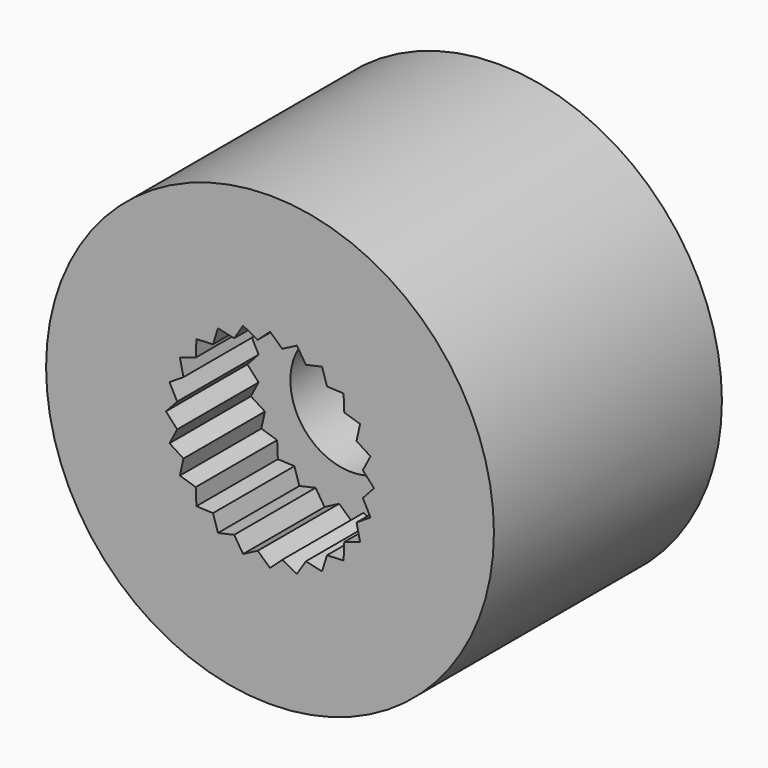
from build123d import *

# Parameters (mm, degrees)
F0_R      = 5.5
F1_DEPTH  = 7
F2_R      = 1.5
F3_DEPTH  = 2.5
F3_FACE_R = 1.5
F4_DEPTH  = 7.001


with BuildPart() as f1:
    # F0 (on Front) → F1 (new body)
    with BuildSketch(Plane.XZ):
        Circle(F0_R)
    extrude(amount=F1_DEPTH)

    # F2 (on face) → F3 (cut)
    with BuildSketch(Plane.XZ.offset(7)):
        with BuildLine():
            add(Edge.make_bspline(
                [(-0.661426, 2.468477), (-0.621291, 2.447571), (-0.541021, 2.405759), (-0.420616, 2.343041), (-0.340345, 2.301229), (-0.30021, 2.280323)],
                knots=[0, 0, 0, 0, 0.135761, 0.271522, 0.407283, 0.407283, 0.407283, 0.407283], degree=3))
            add(Edge.make_bspline(
                [(-0.880172, 2.124923), (-0.855867, 2.163096), (-0.807257, 2.239441), (-0.734342, 2.353959), (-0.685731, 2.430304), (-0.661426, 2.468477)],
                knots=[0, 0, 0, 0, 0.135761, 0.271522, 0.407283, 0.407283, 0.407283, 0.407283], degree=3))
            add(Edge.make_bspline(
                [(-1.277778, 2.213176), (-1.233599, 2.20337), (-1.145242, 2.183758), (-1.012707, 2.154341), (-0.92435, 2.134729), (-0.880172, 2.124923)],
                knots=[0, 0, 0, 0, 0.135761, 0.271522, 0.407283, 0.407283, 0.407283, 0.407283], degree=3))
            add(Edge.make_bspline(
                [(-1.400151, 1.824713), (-1.386554, 1.867875), (-1.35936, 1.9542), (-1.318569, 2.083688), (-1.291375, 2.170013), (-1.277778, 2.213176)],
                knots=[0, 0, 0, 0, 0.135761, 0.271522, 0.407283, 0.407283, 0.407283, 0.407283], degree=3))
            add(Edge.make_bspline(
                [(-1.807051, 1.807051), (-1.76184, 1.809013), (-1.671418, 1.812938), (-1.535784, 1.818825), (-1.445362, 1.82275), (-1.400151, 1.824713)],
                knots=[0, 0, 0, 0, 0.135761, 0.271522, 0.407283, 0.407283, 0.407283, 0.407283], degree=3))
            add(Edge.make_bspline(
                [(-1.824713, 1.400151), (-1.82275, 1.445362), (-1.818825, 1.535784), (-1.812938, 1.671418), (-1.809013, 1.76184), (-1.807051, 1.807051)],
                knots=[0, 0, 0, 0, 0.135761, 0.271522, 0.407283, 0.407283, 0.407283, 0.407283], degree=3))
            add(Edge.make_bspline(
                [(-2.213176, 1.277778), (-2.170013, 1.291375), (-2.083688, 1.318569), (-1.9542, 1.35936), (-1.867875, 1.386554), (-1.824713, 1.400151)],
                knots=[0, 0, 0, 0, 0.135761, 0.271522, 0.407283, 0.407283, 0.407283, 0.407283], degree=3))
            add(Edge.make_bspline(
                [(-2.124923, 0.880172), (-2.134729, 0.92435), (-2.154341, 1.012707), (-2.183758, 1.145242), (-2.20337, 1.233599), (-2.213176, 1.277778)],
                knots=[0, 0, 0, 0, 0.135761, 0.271522, 0.407283, 0.407283, 0.407283, 0.407283], degree=3))
            add(Edge.make_bspline(
                [(-2.468477, 0.661426), (-2.430304, 0.685731), (-2.353959, 0.734342), (-2.239441, 0.807257), (-2.163096, 0.855867), (-2.124923, 0.880172)],
                knots=[0, 0, 0, 0, 0.135761, 0.271522, 0.407283, 0.407283, 0.407283, 0.407283], degree=3))
            add(Edge.make_bspline(
                [(-2.280323, 0.30021), (-2.301229, 0.340345), (-2.343041, 0.420616), (-2.405759, 0.541021), (-2.447571, 0.621291), (-2.468477, 0.661426)],
                knots=[0, 0, 0, 0, 0.135761, 0.271522, 0.407283, 0.407283, 0.407283, 0.407283], degree=3))
            add(Edge.make_bspline(
                [(-2.555556, 0), (-2.524974, 0.033357), (-2.463811, 0.10007), (-2.372067, 0.20014), (-2.310905, 0.266854), (-2.280323, 0.30021)],
                knots=[0, 0, 0, 0, 0.135761, 0.271522, 0.407283, 0.407283, 0.407283, 0.407283], degree=3))
            add(Edge.make_bspline(
                [(-2.280323, -0.30021), (-2.310905, -0.266854), (-2.372067, -0.20014), (-2.463811, -0.10007), (-2.524974, -0.033357), (-2.555556, 0)],
                knots=[0, 0, 0, 0, 0.135761, 0.271522, 0.407283, 0.407283, 0.407283, 0.407283], degree=3))
            add(Edge.make_bspline(
                [(-2.468477, -0.661426), (-2.447571, -0.621291), (-2.405759, -0.541021), (-2.343041, -0.420616), (-2.301229, -0.340345), (-2.280323, -0.30021)],
                knots=[0, 0, 0, 0, 0.135761, 0.271522, 0.407283, 0.407283, 0.407283, 0.407283], degree=3))
            add(Edge.make_bspline(
                [(-2.124923, -0.880172), (-2.163096, -0.855867), (-2.239441, -0.807257), (-2.353959, -0.734342), (-2.430304, -0.685731), (-2.468477, -0.661426)],
                knots=[0, 0, 0, 0, 0.135761, 0.271522, 0.407283, 0.407283, 0.407283, 0.407283], degree=3))
            add(Edge.make_bspline(
                [(-2.213176, -1.277778), (-2.20337, -1.233599), (-2.183758, -1.145242), (-2.154341, -1.012707), (-2.134729, -0.92435), (-2.124923, -0.880172)],
                knots=[0, 0, 0, 0, 0.135761, 0.271522, 0.407283, 0.407283, 0.407283, 0.407283], degree=3))
            add(Edge.make_bspline(
                [(-1.824713, -1.400151), (-1.867875, -1.386554), (-1.9542, -1.35936), (-2.083688, -1.318569), (-2.170013, -1.291375), (-2.213176, -1.277778)],
                knots=[0, 0, 0, 0, 0.135761, 0.271522, 0.407283, 0.407283, 0.407283, 0.407283], degree=3))
            add(Edge.make_bspline(
                [(-1.807051, -1.807051), (-1.809013, -1.76184), (-1.812938, -1.671418), (-1.818825, -1.535784), (-1.82275, -1.445362), (-1.824713, -1.400151)],
                knots=[0, 0, 0, 0, 0.135761, 0.271522, 0.407283, 0.407283, 0.407283, 0.407283], degree=3))
            add(Edge.make_bspline(
                [(-1.400151, -1.824713), (-1.445362, -1.82275), (-1.535784, -1.818825), (-1.671418, -1.812938), (-1.76184, -1.809013), (-1.807051, -1.807051)],
                knots=[0, 0, 0, 0, 0.135761, 0.271522, 0.407283, 0.407283, 0.407283, 0.407283], degree=3))
            add(Edge.make_bspline(
                [(-1.277778, -2.213176), (-1.291375, -2.170013), (-1.318569, -2.083688), (-1.35936, -1.9542), (-1.386554, -1.867875), (-1.400151, -1.824713)],
                knots=[0, 0, 0, 0, 0.135761, 0.271522, 0.407283, 0.407283, 0.407283, 0.407283], degree=3))
            add(Edge.make_bspline(
                [(-0.880172, -2.124923), (-0.92435, -2.134729), (-1.012707, -2.154341), (-1.145242, -2.183758), (-1.233599, -2.20337), (-1.277778, -2.213176)],
                knots=[0, 0, 0, 0, 0.135761, 0.271522, 0.407283, 0.407283, 0.407283, 0.407283], degree=3))
            add(Edge.make_bspline(
                [(-0.661426, -2.468477), (-0.685731, -2.430304), (-0.734342, -2.353959), (-0.807257, -2.239441), (-0.855867, -2.163096), (-0.880172, -2.124923)],
                knots=[0, 0, 0, 0, 0.135761, 0.271522, 0.407283, 0.407283, 0.407283, 0.407283], degree=3))
            add(Edge.make_bspline(
                [(-0.30021, -2.280323), (-0.340345, -2.301229), (-0.420616, -2.343041), (-0.541021, -2.405759), (-0.621291, -2.447571), (-0.661426, -2.468477)],
                knots=[0, 0, 0, 0, 0.135761, 0.271522, 0.407283, 0.407283, 0.407283, 0.407283], degree=3))
            add(Edge.make_bspline(
                [(0, -2.555556), (-0.033357, -2.524974), (-0.10007, -2.463811), (-0.20014, -2.372067), (-0.266854, -2.310905), (-0.30021, -2.280323)],
                knots=[0, 0, 0, 0, 0.135761, 0.271522, 0.407283, 0.407283, 0.407283, 0.407283], degree=3))
            add(Edge.make_bspline(
                [(0.30021, -2.280323), (0.266854, -2.310905), (0.20014, -2.372067), (0.10007, -2.463811), (0.033357, -2.524974), (0, -2.555556)],
                knots=[0, 0, 0, 0, 0.135761, 0.271522, 0.407283, 0.407283, 0.407283, 0.407283], degree=3))
            add(Edge.make_bspline(
                [(0.661426, -2.468477), (0.621291, -2.447571), (0.541021, -2.405759), (0.420616, -2.343041), (0.340345, -2.301229), (0.30021, -2.280323)],
                knots=[0, 0, 0, 0, 0.135761, 0.271522, 0.407283, 0.407283, 0.407283, 0.407283], degree=3))
            add(Edge.make_bspline(
                [(0.880172, -2.124923), (0.855867, -2.163096), (0.807257, -2.239441), (0.734342, -2.353959), (0.685731, -2.430304), (0.661426, -2.468477)],
                knots=[0, 0, 0, 0, 0.135761, 0.271522, 0.407283, 0.407283, 0.407283, 0.407283], degree=3))
            add(Edge.make_bspline(
                [(1.277778, -2.213176), (1.233599, -2.20337), (1.145242, -2.183758), (1.012707, -2.154341), (0.92435, -2.134729), (0.880172, -2.124923)],
                knots=[0, 0, 0, 0, 0.135761, 0.271522, 0.407283, 0.407283, 0.407283, 0.407283], degree=3))
            add(Edge.make_bspline(
                [(1.400151, -1.824713), (1.386554, -1.867875), (1.35936, -1.9542), (1.318569, -2.083688), (1.291375, -2.170013), (1.277778, -2.213176)],
                knots=[0, 0, 0, 0, 0.135761, 0.271522, 0.407283, 0.407283, 0.407283, 0.407283], degree=3))
            add(Edge.make_bspline(
                [(1.807051, -1.807051), (1.76184, -1.809013), (1.671418, -1.812938), (1.535784, -1.818825), (1.445362, -1.82275), (1.400151, -1.824713)],
                knots=[0, 0, 0, 0, 0.135761, 0.271522, 0.407283, 0.407283, 0.407283, 0.407283], degree=3))
            add(Edge.make_bspline(
                [(1.824713, -1.400151), (1.82275, -1.445362), (1.818825, -1.535784), (1.812938, -1.671418), (1.809013, -1.76184), (1.807051, -1.807051)],
                knots=[0, 0, 0, 0, 0.135761, 0.271522, 0.407283, 0.407283, 0.407283, 0.407283], degree=3))
            add(Edge.make_bspline(
                [(2.213176, -1.277778), (2.170013, -1.291375), (2.083688, -1.318569), (1.9542, -1.35936), (1.867875, -1.386554), (1.824713, -1.400151)],
                knots=[0, 0, 0, 0, 0.135761, 0.271522, 0.407283, 0.407283, 0.407283, 0.407283], degree=3))
            add(Edge.make_bspline(
                [(2.124923, -0.880172), (2.134729, -0.92435), (2.154341, -1.012707), (2.183758, -1.145242), (2.20337, -1.233599), (2.213176, -1.277778)],
                knots=[0, 0, 0, 0, 0.135761, 0.271522, 0.407283, 0.407283, 0.407283, 0.407283], degree=3))
            add(Edge.make_bspline(
                [(2.468477, -0.661426), (2.430304, -0.685731), (2.353959, -0.734342), (2.239441, -0.807257), (2.163096, -0.855867), (2.124923, -0.880172)],
                knots=[0, 0, 0, 0, 0.135761, 0.271522, 0.407283, 0.407283, 0.407283, 0.407283], degree=3))
            add(Edge.make_bspline(
                [(2.280323, -0.30021), (2.301229, -0.340345), (2.343041, -0.420616), (2.405759, -0.541021), (2.447571, -0.621291), (2.468477, -0.661426)],
                knots=[0, 0, 0, 0, 0.135761, 0.271522, 0.407283, 0.407283, 0.407283, 0.407283], degree=3))
            add(Edge.make_bspline(
                [(2.555556, 0), (2.524974, -0.033357), (2.463811, -0.10007), (2.372067, -0.20014), (2.310905, -0.266854), (2.280323, -0.30021)],
                knots=[0, 0, 0, 0, 0.135761, 0.271522, 0.407283, 0.407283, 0.407283, 0.407283], degree=3))
            add(Edge.make_bspline(
                [(2.280323, 0.30021), (2.310905, 0.266854), (2.372067, 0.20014), (2.463811, 0.10007), (2.524974, 0.033357), (2.555556, 0)],
                knots=[0, 0, 0, 0, 0.135761, 0.271522, 0.407283, 0.407283, 0.407283, 0.407283], degree=3))
            add(Edge.make_bspline(
                [(2.468477, 0.661426), (2.447571, 0.621291), (2.405759, 0.541021), (2.343041, 0.420616), (2.301229, 0.340345), (2.280323, 0.30021)],
                knots=[0, 0, 0, 0, 0.135761, 0.271522, 0.407283, 0.407283, 0.407283, 0.407283], degree=3))
            add(Edge.make_bspline(
                [(2.124923, 0.880172), (2.163096, 0.855867), (2.239441, 0.807257), (2.353959, 0.734342), (2.430304, 0.685731), (2.468477, 0.661426)],
                knots=[0, 0, 0, 0, 0.135761, 0.271522, 0.407283, 0.407283, 0.407283, 0.407283], degree=3))
            add(Edge.make_bspline(
                [(2.213176, 1.277778), (2.20337, 1.233599), (2.183758, 1.145242), (2.154341, 1.012707), (2.134729, 0.92435), (2.124923, 0.880172)],
                knots=[0, 0, 0, 0, 0.135761, 0.271522, 0.407283, 0.407283, 0.407283, 0.407283], degree=3))
            add(Edge.make_bspline(
                [(1.824713, 1.400151), (1.867875, 1.386554), (1.9542, 1.35936), (2.083688, 1.318569), (2.170013, 1.291375), (2.213176, 1.277778)],
                knots=[0, 0, 0, 0, 0.135761, 0.271522, 0.407283, 0.407283, 0.407283, 0.407283], degree=3))
            add(Edge.make_bspline(
                [(1.807051, 1.807051), (1.809013, 1.76184), (1.812938, 1.671418), (1.818825, 1.535784), (1.82275, 1.445362), (1.824713, 1.400151)],
                knots=[0, 0, 0, 0, 0.135761, 0.271522, 0.407283, 0.407283, 0.407283, 0.407283], degree=3))
            add(Edge.make_bspline(
                [(1.400151, 1.824713), (1.445362, 1.82275), (1.535784, 1.818825), (1.671418, 1.812938), (1.76184, 1.809013), (1.807051, 1.807051)],
                knots=[0, 0, 0, 0, 0.135761, 0.271522, 0.407283, 0.407283, 0.407283, 0.407283], degree=3))
            add(Edge.make_bspline(
                [(1.277778, 2.213176), (1.291375, 2.170013), (1.318569, 2.083688), (1.35936, 1.9542), (1.386554, 1.867875), (1.400151, 1.824713)],
                knots=[0, 0, 0, 0, 0.135761, 0.271522, 0.407283, 0.407283, 0.407283, 0.407283], degree=3))
            add(Edge.make_bspline(
                [(0.880172, 2.124923), (0.92435, 2.134729), (1.012707, 2.154341), (1.145242, 2.183758), (1.233599, 2.20337), (1.277778, 2.213176)],
                knots=[0, 0, 0, 0, 0.135761, 0.271522, 0.407283, 0.407283, 0.407283, 0.407283], degree=3))
            add(Edge.make_bspline(
                [(0.661426, 2.468477), (0.685731, 2.430304), (0.734342, 2.353959), (0.807257, 2.239441), (0.855867, 2.163096), (0.880172, 2.124923)],
                knots=[0, 0, 0, 0, 0.135761, 0.271522, 0.407283, 0.407283, 0.407283, 0.407283], degree=3))
            add(Edge.make_bspline(
                [(0.30021, 2.280323), (0.340345, 2.301229), (0.420616, 2.343041), (0.541021, 2.405759), (0.621291, 2.447571), (0.661426, 2.468477)],
                knots=[0, 0, 0, 0, 0.135761, 0.271522, 0.407283, 0.407283, 0.407283, 0.407283], degree=3))
            add(Edge.make_bspline(
                [(0, 2.555556), (0.033357, 2.524974), (0.10007, 2.463811), (0.20014, 2.372067), (0.266854, 2.310905), (0.30021, 2.280323)],
                knots=[0, 0, 0, 0, 0.135761, 0.271522, 0.407283, 0.407283, 0.407283, 0.407283], degree=3))
            add(Edge.make_bspline(
                [(-0.30021, 2.280323), (-0.266854, 2.310905), (-0.20014, 2.372067), (-0.10007, 2.463811), (-0.033357, 2.524974), (0, 2.555556)],
                knots=[0, 0, 0, 0, 0.135761, 0.271522, 0.407283, 0.407283, 0.407283, 0.407283], degree=3))
        make_face()
        Circle(F2_R, mode=Mode.SUBTRACT)
    extrude(amount=-F3_DEPTH, mode=Mode.SUBTRACT)

    # F3_face (on face) → F4 (cut, through all)
    with BuildSketch(Plane.XZ.offset(7)):
        Circle(F3_FACE_R)
    extrude(amount=-F4_DEPTH, mode=Mode.SUBTRACT)


solid = f1.part
